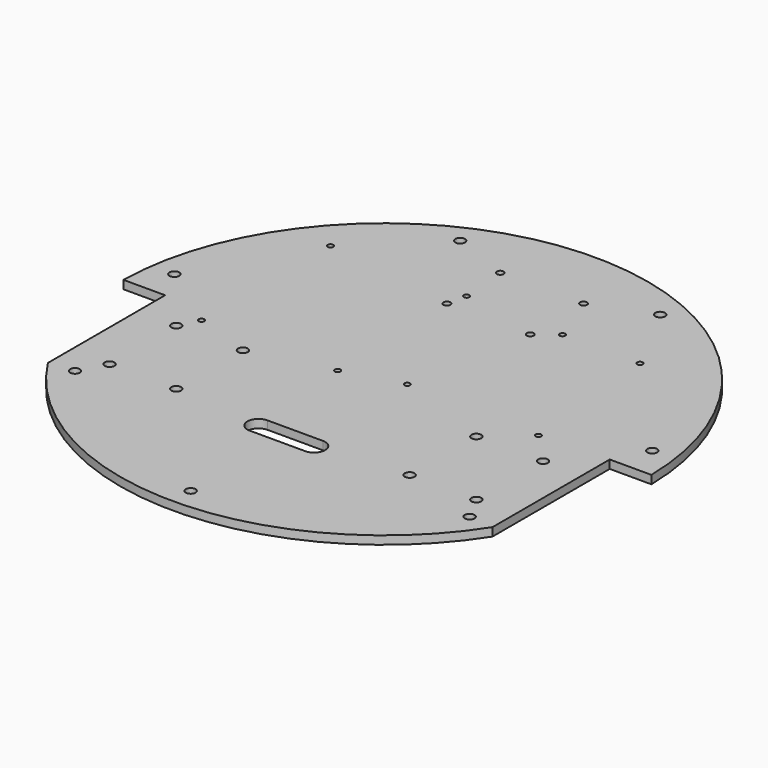
from build123d import *

# Parameters (mm, degrees)
SKETCH_R        = 95
PAD_DEPTH       = 3
SKETCH001_R     = 1.25
POCKET_DEPTH    = 3.001
SKETCH002_R     = 1.75
SKETCH002_W     = 16
SKETCH002_H     = 55
POCKET001_DEPTH = 540.435647
SKETCH003_R     = 1.75
POCKET002_DEPTH = 3.001
SKETCH004_R     = 1
POCKET003_DEPTH = 3.001


with BuildPart() as part:
    # Sketch → Pad (new body)
    with BuildSketch(Plane.XY):
        Circle(SKETCH_R)
    extrude(amount=PAD_DEPTH)

    # Sketch001 (on Face3 of Pad) → Pocket (cut, through all)
    with BuildSketch(Plane.XY.offset(3)):
        with Locations((-15, 71)):
            Circle(SKETCH001_R)
        with Locations((15, 71)):
            Circle(SKETCH001_R)
        with Locations((15, 47)):
            Circle(SKETCH001_R)
        with Locations((-15, 47)):
            Circle(SKETCH001_R)
    extrude(amount=-POCKET_DEPTH, mode=Mode.SUBTRACT)

    # Sketch002 (on Face3 of Pocket) → Pocket001 (cut, through all)
    with BuildSketch(Plane.XY.offset(3)):
        with Locations((-66, -11)):
            Circle(SKETCH002_R)
        with Locations((-42, -11)):
            Circle(SKETCH002_R)
        with Locations((-66, -41)):
            Circle(SKETCH002_R)
        with Locations((-42, -41)):
            Circle(SKETCH002_R)
        with Locations((-88, -26)):
            Rectangle(SKETCH002_W, SKETCH002_H)
    pocket001 = extrude(amount=-POCKET001_DEPTH, mode=Mode.SUBTRACT)

    # Mirrored: Pocket001 across YZ
    add(pocket001.mirror(Plane.YZ), mode=Mode.SUBTRACT)

    # Sketch003 (on Face4 of Mirrored) → Pocket002 (cut, through all)
    with BuildSketch(Plane.XY.offset(3)):
        with Locations((-36, 79.202273)):
            Circle(SKETCH003_R)
        with Locations((36, 79.202273)):
            Circle(SKETCH003_R)
        with Locations((-71, -50.27922)):
            Circle(SKETCH003_R)
        with Locations((71, -50.27922)):
            Circle(SKETCH003_R)
        with Locations((-86, 13.152946)):
            Circle(SKETCH003_R)
        with Locations((86, 13.152946)):
            Circle(SKETCH003_R)
        with Locations((0, -87)):
            Circle(SKETCH003_R)
    extrude(amount=-POCKET002_DEPTH, mode=Mode.SUBTRACT)

    # Sketch004 (on Face4 of Pocket002) → Pocket003 (cut, through all)
    with BuildSketch(Plane.XY.offset(3)):
        with Locations((-62.5, -4)):
            Circle(SKETCH004_R)
        with Locations((-62.5, 54)):
            Circle(SKETCH004_R)
        with Locations((-13.5, 54)):
            Circle(SKETCH004_R)
        with Locations((-13.5, -4)):
            Circle(SKETCH004_R)
        with Locations((22.2, 52.5)):
            Circle(SKETCH004_R)
        with Locations((7, 1.7)):
            Circle(SKETCH004_R)
        with Locations((55.2, 0.4)):
            Circle(SKETCH004_R)
        with Locations((50.1, 52.5)):
            Circle(SKETCH004_R)
        with BuildLine():
            ThreePointArc((-10, -40), (-14, -44), (-10, -48))
            Line((-10, -48), (10, -48))
            ThreePointArc((10, -48), (14, -44), (10, -40))
            Line((-10, -40), (10, -40))
        make_face()
    extrude(amount=-POCKET003_DEPTH, mode=Mode.SUBTRACT)


solid = part.part
